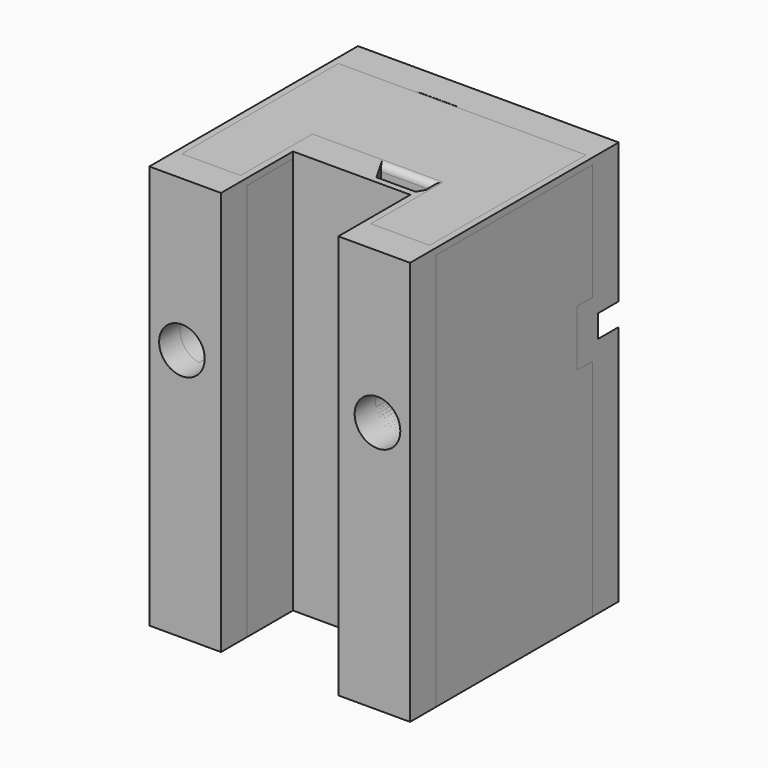
from build123d import *

# Parameters (mm, degrees)
BOX001_W          = 9
BOX001_H          = 7
BOX001_DEPTH      = 42
PRISM003_DEPTH    = 10
PRISM002_DEPTH    = 10
CYLINDER004_R     = 1.75
CYLINDER004_DEPTH = 43
CYLINDER003_R     = 1.75
CYLINDER003_DEPTH = 40
CYLINDER002_R     = 1.75
CYLINDER002_DEPTH = 39
CYLINDER001_R     = 1.75
CYLINDER001_DEPTH = 41
PRISM001_DEPTH    = 10
PRISM_DEPTH       = 10
BOX_W             = 20
BOX_H             = 20
BOX_DEPTH         = 31
BOX009_W          = 30
BOX009_H          = 30
BOX009_DEPTH      = 35
BOX008_W          = 30
BOX008_H          = 30
BOX008_DEPTH      = 35
PRISM004_DEPTH    = 3
CYLINDER005_R     = 1.75
CYLINDER005_DEPTH = 20
BOX004_W          = 6
BOX004_H          = 20
BOX004_DEPTH      = 3
PRISM007_DEPTH    = 3
CYLINDER008_R     = 1.75
CYLINDER008_DEPTH = 20
BOX007_W          = 6
BOX007_H          = 20
BOX007_DEPTH      = 3
BOX006_W          = 9
BOX006_H          = 9
BOX006_DEPTH      = 42
CYLINDER006_R     = 1.75
CYLINDER006_DEPTH = 39
CYLINDER007_R     = 1.75
CYLINDER007_DEPTH = 41
PRISM005_DEPTH    = 10
PRISM006_DEPTH    = 10
BOX005_W          = 20
BOX005_H          = 20
BOX005_DEPTH      = 31
FILLET_R          = 0.5
FILLET001_R       = 0.5


with BuildPart() as cubo001:
    # Box001 → Box001 (new body)
    with BuildSketch(Plane(origin=(5.5, -0.1, -6), x_dir=(1, 0, 0), z_dir=(0, 0, 1))):
        with Locations((4.5, 3.5)):
            Rectangle(BOX001_W, BOX001_H)
    extrude(amount=BOX001_DEPTH)


with BuildPart() as prisma003:
    # Prism003 → Prism003 (new body)
    with BuildSketch(Plane(origin=(8, 15, 29), x_dir=(1, 0, 0), z_dir=(0, 0, 1))):
        Polygon((3, 0), (1.5, 2.598076), (-1.5, 2.598076), (-3, 0), (-1.5, -2.598076), (1.5, -2.598076), align=None)
    extrude(amount=PRISM003_DEPTH)


with BuildPart() as prisma002:
    # Prism002 → Prism002 (new body)
    with BuildSketch(Plane(origin=(13, 10, 29), x_dir=(1, 0, 0), z_dir=(0, 0, 1))):
        Polygon((3, 0), (1.5, 2.598076), (-1.5, 2.598076), (-3, 0), (-1.5, -2.598076), (1.5, -2.598076), align=None)
    extrude(amount=PRISM002_DEPTH)


with BuildPart() as cilindro004:
    # Cylinder004 → Cylinder004 (new body)
    with BuildSketch(Plane(origin=(8, 15, -3), x_dir=(1, 0, 0), z_dir=(0, 0, 1))):
        Circle(CYLINDER004_R)
    extrude(amount=CYLINDER004_DEPTH)


with BuildPart() as cilindro003:
    # Cylinder003 → Cylinder003 (new body)
    with BuildSketch(Plane(origin=(13, 10, -3), x_dir=(1, 0, 0), z_dir=(0, 0, 1))):
        Circle(CYLINDER003_R)
    extrude(amount=CYLINDER003_DEPTH)


with BuildPart() as cilindro002:
    # Cylinder002 → Cylinder002 (new body)
    with BuildSketch(Plane(origin=(17.5, 32, 19.4), x_dir=(1, 0, 0), z_dir=(0, -1, 0))):
        Circle(CYLINDER002_R)
    extrude(amount=CYLINDER002_DEPTH)


with BuildPart() as cilindro001:
    # Cylinder001 → Cylinder001 (new body)
    with BuildSketch(Plane(origin=(2.5, 30, 19.4), x_dir=(1, 0, 0), z_dir=(0, -1, 0))):
        Circle(CYLINDER001_R)
    extrude(amount=CYLINDER001_DEPTH)


with BuildPart() as prisma001:
    # Prism001 → Prism001 (new body)
    with BuildSketch(Plane(origin=(17.5, 28, 19.4), x_dir=(1, 0, 0), z_dir=(0, -1, 0))):
        Polygon((3, 0), (1.5, 2.598076), (-1.5, 2.598076), (-3, 0), (-1.5, -2.598076), (1.5, -2.598076), align=None)
    extrude(amount=PRISM001_DEPTH)


with BuildPart() as prisma:
    # Prism → Prism (new body)
    with BuildSketch(Plane(origin=(2.5, 28, 19.4), x_dir=(1, 0, 0), z_dir=(0, -1, 0))):
        Polygon((3, 0), (1.5, 2.598076), (-1.5, 2.598076), (-3, 0), (-1.5, -2.598076), (1.5, -2.598076), align=None)
    extrude(amount=PRISM_DEPTH)


with BuildPart() as obj1:
    # Box → Box (new body)
    with BuildSketch(Plane.XY):
        with Locations((10, 10)):
            Rectangle(BOX_W, BOX_H)
    extrude(amount=BOX_DEPTH)

    # Cut: cut Prisma
    add(prisma.part, mode=Mode.SUBTRACT)

    # Cut001: cut Prisma001
    add(prisma001.part, mode=Mode.SUBTRACT)

    # Cut002: cut Cilindro001
    add(cilindro001.part, mode=Mode.SUBTRACT)

    # Cut003: cut Cilindro002
    add(cilindro002.part, mode=Mode.SUBTRACT)

    # Cut004: cut Cilindro003
    add(cilindro003.part, mode=Mode.SUBTRACT)

    # Cut005: cut Cilindro004
    add(cilindro004.part, mode=Mode.SUBTRACT)

    # Cut006: cut Prisma002
    add(prisma002.part, mode=Mode.SUBTRACT)

    # Cut007: cut Prisma003
    add(prisma003.part, mode=Mode.SUBTRACT)

    # Cut008: cut Cubo001
    add(cubo001.part, mode=Mode.SUBTRACT)


with BuildPart() as cubo009:
    # Box009 → Box009 (new body)
    with BuildSketch(Plane(origin=(0, -28, 0), x_dir=(1, 0, 0), z_dir=(0, 0, 1))):
        with Locations((15, 15)):
            Rectangle(BOX009_W, BOX009_H)
    extrude(amount=BOX009_DEPTH)


with BuildPart() as cubo008:
    # Box008 → Box008 (new body)
    with BuildSketch(Plane(origin=(0, 18, 0), x_dir=(1, 0, 0), z_dir=(0, 0, 1))):
        with Locations((15, 15)):
            Rectangle(BOX008_W, BOX008_H)
    extrude(amount=BOX008_DEPTH)


with BuildPart() as prisma004:
    # Prism004 → Prism004 (new body)
    with BuildSketch(Plane(origin=(34, 7.5, 3), x_dir=(0, 1, 0), z_dir=(0, 0, 1))):
        Polygon((3.25, 0), (1.625, 2.814583), (-1.625, 2.814583), (-3.25, 0), (-1.625, -2.814583), (1.625, -2.814583), align=None)
    extrude(amount=PRISM004_DEPTH)


with BuildPart() as cilindro005:
    # Cylinder005 → Cylinder005 (new body)
    with BuildSketch(Plane(origin=(34, 7.5, -1), x_dir=(1, 0, 0), z_dir=(0, 0, 1))):
        Circle(CYLINDER005_R)
    extrude(amount=CYLINDER005_DEPTH)


with BuildPart() as fusion001:
    # Box004 → Box004 (new body)
    with BuildSketch(Plane(origin=(31, 9, 3), x_dir=(1, 0, 0), z_dir=(0, 0, 1))):
        with Locations((3, 10)):
            Rectangle(BOX004_W, BOX004_H)
    extrude(amount=BOX004_DEPTH)

    # Fusion001: union Prisma004, Cilindro005
    add(prisma004.part)
    add(cilindro005.part)


with BuildPart() as fusion001_1:
    # Fusion001 placement: moved
    add(fusion001.part.moved(Location((-18, 5, 0))))


with BuildPart() as prisma007:
    # Prism007 → Prism007 (new body)
    with BuildSketch(Plane(origin=(34, 7.5, 3), x_dir=(0, 1, 0), z_dir=(0, 0, 1))):
        Polygon((3.25, 0), (1.625, 2.814583), (-1.625, 2.814583), (-3.25, 0), (-1.625, -2.814583), (1.625, -2.814583), align=None)
    extrude(amount=PRISM007_DEPTH)


with BuildPart() as cilindro008:
    # Cylinder008 → Cylinder008 (new body)
    with BuildSketch(Plane(origin=(34, 7.5, -1), x_dir=(1, 0, 0), z_dir=(0, 0, 1))):
        Circle(CYLINDER008_R)
    extrude(amount=CYLINDER008_DEPTH)


with BuildPart() as fusion002:
    # Box007 → Box007 (new body)
    with BuildSketch(Plane(origin=(31, 9, 3), x_dir=(1, 0, 0), z_dir=(0, 0, 1))):
        with Locations((3, 10)):
            Rectangle(BOX007_W, BOX007_H)
    extrude(amount=BOX007_DEPTH)

    # Fusion002: union Prisma007, Cilindro008
    add(prisma007.part)
    add(cilindro008.part)


with BuildPart() as fusion002_1:
    # Fusion002 placement: moved
    add(fusion002.part.moved(Location((-30, 5, 0))))


with BuildPart() as cubo006:
    # Box006 → Box006 (new body)
    with BuildSketch(Plane(origin=(5.5, -0.1, -6), x_dir=(1, 0, 0), z_dir=(0, 0, 1))):
        with Locations((4.5, 4.5)):
            Rectangle(BOX006_W, BOX006_H)
    extrude(amount=BOX006_DEPTH)


with BuildPart() as cilindro006:
    # Cylinder006 → Cylinder006 (new body)
    with BuildSketch(Plane(origin=(17.5, 32, 19.4), x_dir=(1, 0, 0), z_dir=(0, -1, 0))):
        Circle(CYLINDER006_R)
    extrude(amount=CYLINDER006_DEPTH)


with BuildPart() as cilindro007:
    # Cylinder007 → Cylinder007 (new body)
    with BuildSketch(Plane(origin=(2.5, 30, 19.4), x_dir=(1, 0, 0), z_dir=(0, -1, 0))):
        Circle(CYLINDER007_R)
    extrude(amount=CYLINDER007_DEPTH)


with BuildPart() as prisma005:
    # Prism005 → Prism005 (new body)
    with BuildSketch(Plane(origin=(17.5, 26, 19.4), x_dir=(1, 0, 0), z_dir=(0, -1, 0))):
        Polygon((3.75, 0), (1.875, 3.247595), (-1.875, 3.247595), (-3.75, 0), (-1.875, -3.247595), (1.875, -3.247595), align=None)
    extrude(amount=PRISM005_DEPTH)


with BuildPart() as prisma006:
    # Prism006 → Prism006 (new body)
    with BuildSketch(Plane(origin=(2.5, 26, 19.4), x_dir=(1, 0, 0), z_dir=(0, -1, 0))):
        Polygon((3.75, 0), (1.875, 3.247595), (-1.875, 3.247595), (-3.75, 0), (-1.875, -3.247595), (1.875, -3.247595), align=None)
    extrude(amount=PRISM006_DEPTH)


with BuildPart() as fillet001:
    # Box005 → Box005 (new body)
    with BuildSketch(Plane.XY):
        with Locations((10, 10)):
            Rectangle(BOX005_W, BOX005_H)
    extrude(amount=BOX005_DEPTH)

    # Cut009: cut Prisma006
    add(prisma006.part, mode=Mode.SUBTRACT)

    # Cut010: cut Prisma005
    add(prisma005.part, mode=Mode.SUBTRACT)

    # Cut011: cut Cilindro007
    add(cilindro007.part, mode=Mode.SUBTRACT)

    # Cut012: cut Cilindro006
    add(cilindro006.part, mode=Mode.SUBTRACT)

    # Cut013: cut Cubo006
    add(cubo006.part, mode=Mode.SUBTRACT)

    # Cut014: cut Fusion002
    add(fusion002_1.part, mode=Mode.SUBTRACT)

    # Cut015: cut Fusion001
    add(fusion001_1.part, mode=Mode.SUBTRACT)

    # Fillet
    fillet_edges = [fillet001.edges().sort_by_distance(p)[0] for p in [
        (0, 10, 31),
        (0, 20, 26.282532),
        (0, 20, 8.617468),
        (0, 0, 15.5),
        (10, 20, 31),
        (20, 10, 31),
        (17.25, 0, 31),
        (14.5, 4.45, 31),
        (10, 8.9, 31),
        (5.5, 4.45, 31),
        (2.75, 0, 31),
        (20, 20, 8.617468),
        (20, 20, 26.282532),
        (5.5, 0, 15.5),
        (20, 0, 15.5),
        (14.5, 0, 15.5),
    ]]
    fillet(fillet_edges, radius=FILLET_R)

    # Cut016: cut Cubo008
    add(cubo008.part, mode=Mode.SUBTRACT)

    # Cut017: cut Cubo009
    add(cubo009.part, mode=Mode.SUBTRACT)

    # Fillet001
    fillet001_edges = [fillet001.edges().sort_by_distance(p)[0] for p in [
        (0, 18, 8.617468),
        (0, 2, 15.25),
        (0, 18, 26.032532),
        (20, 18, 8.617468),
        (20, 18, 26.032532),
        (10, 18, 31),
        (5.5, 2, 15.25),
        (2.75, 2, 31),
        (20, 2, 15.25),
        (17.25, 2, 31),
        (14.5, 2, 15.25),
    ]]
    fillet(fillet001_edges, radius=FILLET001_R)


solid = Compound([obj1.part, fillet001.part])
